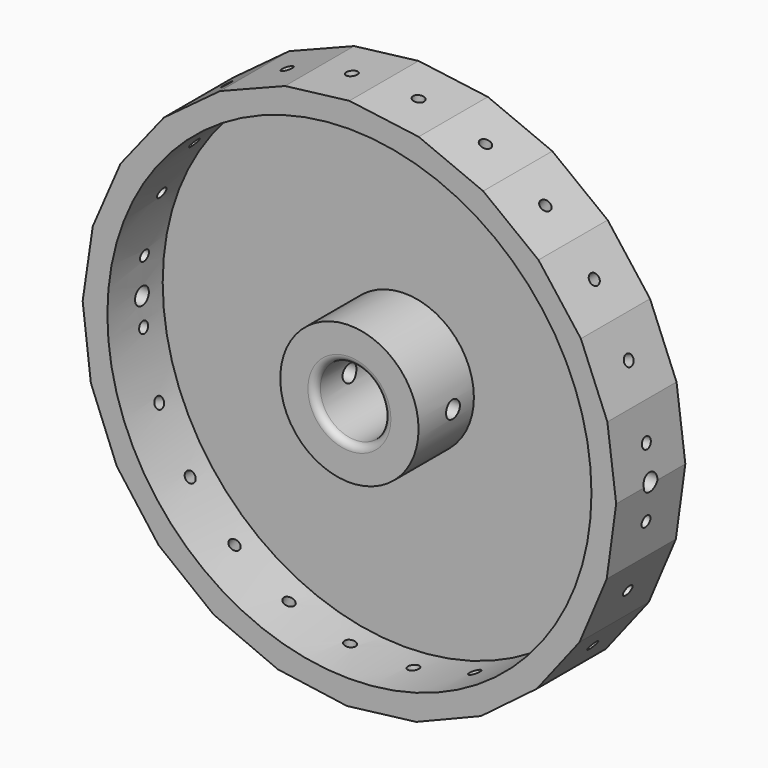
from build123d import *

# Parameters (mm, degrees)
F0_R      = 77.15
F0_R_2    = 10
F1_DEPTH  = 25
F3_DEPTH  = 25
F4_R      = 70
F4_R_2    = 20
F5_DEPTH  = 20
F6_R      = 2
F8_D      = 3.2
F8_DEPTH  = 20
F8_TIP    = 0.9613769904
F10_D     = 3.2
F10_DEPTH = 20
F10_TIP   = 0.9613769904
F12_D     = 3.2
F12_DEPTH = 20
F12_TIP   = 0.9613769904
F14_D     = 3.2
F14_DEPTH = 20
F14_TIP   = 0.9613769904
F16_D     = 3.2
F16_DEPTH = 20
F16_TIP   = 0.9613769904
F18_D     = 3.2
F18_DEPTH = 20
F18_TIP   = 0.9613769904
F20_D     = 3.2
F20_DEPTH = 20
F20_TIP   = 0.9613769904
F22_D     = 3.2
F22_DEPTH = 20
F22_TIP   = 0.9613769904
F24_D     = 3.2
F24_DEPTH = 20
F24_TIP   = 0.9613769904
F26_D     = 3.2
F26_DEPTH = 20
F26_TIP   = 0.9613769904
F28_D     = 3.2
F28_DEPTH = 20
F28_TIP   = 0.9613769904
F30_D     = 3.2
F30_DEPTH = 20
F30_TIP   = 0.9613769904
F32_D     = 3.2
F32_DEPTH = 20
F32_TIP   = 0.9613769904
F34_D     = 3.2
F34_DEPTH = 20
F34_TIP   = 0.9613769904
F36_D     = 3.2
F36_DEPTH = 20
F36_TIP   = 0.9613769904
F38_D     = 3.2
F38_DEPTH = 20
F38_TIP   = 0.9613769904
F40_D     = 3.2
F40_DEPTH = 20
F40_TIP   = 0.9613769904
F42_D     = 3.2
F42_DEPTH = 20
F42_TIP   = 0.9613769904
F44_D     = 3.2
F44_DEPTH = 20
F44_TIP   = 0.9613769904
F46_D     = 3.2
F46_DEPTH = 20
F46_TIP   = 0.9613769904
F48_D     = 3.2
F48_DEPTH = 20
F48_TIP   = 0.9613769904
F50_D     = 3.2
F50_DEPTH = 20
F50_TIP   = 0.9613769904
F52_D     = 3.2
F52_DEPTH = 20
F52_TIP   = 0.9613769904
F54_D     = 3.2
F54_DEPTH = 20
F54_TIP   = 0.9613769904
F56_D     = 5
F56_DEPTH = 100
F56_TIP   = 1.5021515476
F58_D     = 5
F58_DEPTH = 100
F58_TIP   = 1.5021515476


with BuildPart() as f1:
    # F0 (on Front) → F1 (new body)
    with BuildSketch(Plane.XZ):
        Circle(F0_R)
        Circle(F0_R_2, mode=Mode.SUBTRACT)
    extrude(amount=F1_DEPTH)

    # F2 (on face) → F3 (cut)
    with BuildSketch(Plane.XZ.offset(25)):
        with BuildLine():
            ThreePointArc((20.0261538347, 74.5055411536), (10.1, 76.4860281359), (0, 77.15))
            Line((0, 77.15), (20.0261538347, 74.5055411536))
        make_face()
        with BuildLine():
            ThreePointArc((38.6794407953, 66.7534520438), (29.6076076643, 71.2426281688), (20.0261538347, 74.5055411536))
            Line((20.0261538347, 74.5055411536), (38.6794407953, 66.7534520438))
        make_face()
        with BuildLine():
            ThreePointArc((54.6811091068, 54.4251670355), (47.0855043757, 61.1152826851), (38.6794407953, 66.7534520438))
            Line((38.6794407953, 66.7534520438), (54.6811091068, 54.4251670355))
        make_face()
        with BuildLine():
            ThreePointArc((66.9341852549, 38.3658356388), (61.3355157058, 46.7982586546), (54.6811091068, 54.4251670355))
            Line((54.6811091068, 54.4251670355), (66.9341852549, 38.3658356388))
        make_face()
        with BuildLine():
            ThreePointArc((74.5986755747, 19.6763843858), (71.3807507013, 29.2730409987), (66.9341852549, 38.3658356388))
            Line((66.9341852549, 38.3658356388), (74.5986755747, 19.6763843858))
        make_face()
        with BuildLine():
            ThreePointArc((77.15, 0), (76.5095102605, 9.9205513811), (74.5986755747, 19.6763843858))
            Line((74.5986755747, 19.6763843858), (77.1491509223, -0.3619557526))
            ThreePointArc((77.1491509223, -0.3619557526), (77.1497877303, -0.1809783742), (77.15, 0))
        make_face()
        with BuildLine():
            ThreePointArc((74.4107667845, -20.3754824861), (76.437801361, -10.4587295164), (77.1491509223, -0.3619557526))
            Line((77.1491509223, -0.3619557526), (74.4107667845, -20.3754824861))
        make_face()
        with BuildLine():
            ThreePointArc((66.5712495167, -38.9921945752), (71.1029375085, -29.9415226343), (74.4107667845, -20.3754824861))
            Line((74.4107667845, -20.3754824861), (66.5712495167, -38.9921945752))
        make_face()
        with BuildLine():
            ThreePointArc((54.1680270071, -54.9358475875), (60.8937044506, -47.3717136938), (66.5712495167, -38.9921945752))
            Line((66.5712495167, -38.9921945752), (54.1680270071, -54.9358475875))
        make_face()
        with BuildLine():
            ThreePointArc((38.0513860086, -67.1134451718), (46.5099828528, -61.5543986652), (54.1680270071, -54.9358475875))
            Line((54.1680270071, -54.9358475875), (38.0513860086, -67.1134451718))
        make_face()
        with BuildLine():
            ThreePointArc((19.3261818384, -74.6901679979), (28.9378300016, -71.517302066), (38.0513860086, -67.1134451718))
            Line((38.0513860086, -67.1134451718), (19.3261818384, -74.6901679979))
        make_face()
        with BuildLine():
            ThreePointArc((-0.7239035381, -77.1466037079), (9.3818819322, -76.5774300392), (19.3261818384, -74.6901679979))
            Line((19.3261818384, -74.6901679979), (-0.7239035381, -77.1466037079))
        make_face()
        with BuildLine():
            ThreePointArc((-20.724362651, -74.3143545535), (-10.8172288248, -76.387892107), (-0.7239035381, -77.1466037079))
            Line((-0.7239035381, -77.1466037079), (-20.724362651, -74.3143545535))
        make_face()
        with BuildLine():
            ThreePointArc((-39.3040900945, -66.387581684), (-30.2747785588, -70.9616817953), (-20.724362651, -74.3143545535))
            Line((-20.724362651, -74.3143545535), (-39.3040900945, -66.387581684))
        make_face()
        with BuildLine():
            ThreePointArc((-55.1893768704, -53.9096946815), (-47.6568803089, -60.6707858794), (-39.3040900945, -66.387581684))
            Line((-39.3040900945, -66.387581684), (-55.1893768704, -53.9096946815))
        make_face()
        with BuildLine():
            ThreePointArc((-67.2912278488, -37.736098826), (-61.7719267452, -46.2206833158), (-55.1893768704, -53.9096946815))
            Line((-55.1893768704, -53.9096946815), (-67.2912278488, -37.736098826))
        make_face()
        with BuildLine():
            ThreePointArc((-74.7800164092, -18.9755539006), (-71.652279257, -28.6019820514), (-67.2912278488, -37.736098826))
            Line((-67.2912278488, -37.736098826), (-74.7800164092, -18.9755539006))
        make_face()
        with BuildLine():
            ThreePointArc((-77.1423584129, 1.0858353897), (-76.6206031558, -9.0225091873), (-74.7800164092, -18.9755539006))
            Line((-74.7800164092, -18.9755539006), (-77.1423584129, 1.0858353897))
        make_face()
        with BuildLine():
            ThreePointArc((-74.2163065828, 21.0727866502), (-76.3363014725, 11.1754900342), (-77.1423584129, 1.0858353897))
            Line((-77.1423584129, 1.0858353897), (-74.2163065828, 21.0727866502))
        make_face()
        with BuildLine():
            ThreePointArc((-66.2024525884, 39.615120488), (-70.8188641383, 30.6073681025), (-74.2163065828, 21.0727866502))
            Line((-74.2163065828, 21.0727866502), (-66.2024525884, 39.615120488))
        make_face()
        with BuildLine():
            ThreePointArc((-53.6501757449, 55.4416913752), (-60.4465318783, 47.9409979442), (-66.2024525884, 39.615120488))
            Line((-66.2024525884, 39.615120488), (-53.6501757449, 55.4416913752))
        make_face()
        with BuildLine():
            ThreePointArc((-37.4199810308, 67.4675293727), (-45.9303664113, 61.9880951581), (-53.6501757449, 55.4416913752))
            Line((-53.6501757449, 55.4416913752), (-37.4199810308, 67.4675293727))
        make_face()
        with BuildLine():
            ThreePointArc((-18.6245082903, 74.8682188311), (-28.2655045405, 71.7856793035), (-37.4199810308, 67.4675293727))
            Line((-37.4199810308, 67.4675293727), (-18.6245082903, 74.8682188311))
        make_face()
        with BuildLine():
            Line((-18.6245082903, 74.8682188311), (0, 77.15))
            ThreePointArc((0, 77.15), (-9.3818819322, 76.5774300392), (-18.6245082903, 74.8682188311))
        make_face()
    extrude(amount=-F3_DEPTH, mode=Mode.SUBTRACT)

    # F4 (on face) → F5 (cut)
    with BuildSketch(Plane.XZ.offset(25)):
        Circle(F4_R)
        Circle(F4_R_2, mode=Mode.SUBTRACT)
    extrude(amount=-F5_DEPTH, mode=Mode.SUBTRACT)

    # F6
    f6_edges = [f1.edges().sort_by_distance(p)[0] for p in [
        (-10, 0, 0),
        (-10, -25, 0),
    ]]
    fillet(f6_edges, radius=F6_R)

    # F8
    with Locations(Plane(origin=(75.8739132485, 0, 9.6572143166), x_dir=(0, 1, 0), z_dir=(0.9919970366, 0, 0.1262611558))):
        with Locations((-12.5, 0)):
            Hole(F8_D / 2, depth=F8_DEPTH)
            with Locations((0, 0, -(F8_DEPTH + F8_TIP / 2))):  # 118° drill point
                Cone(0, F8_D / 2, F8_TIP, mode=Mode.SUBTRACT)

    # F10
    with Locations(Plane(origin=(75.7799588534, 0, -10.3687191193), x_dir=(0, 1, 0), z_dir=(0.9907686502, 0, -0.1355635712))):
        with Locations((-12.5, 0)):
            Hole(F10_D / 2, depth=F10_DEPTH)
            with Locations((0, 0, -(F10_DEPTH + F10_TIP / 2))):  # 118° drill point
                Cone(0, F10_D / 2, F10_TIP, mode=Mode.SUBTRACT)

    # F12
    with Locations(Plane(origin=(70.4910081506, 0, -29.6838385306), x_dir=(0, 1, 0), z_dir=(0.9216194104, 0, -0.3880949142))):
        with Locations((-12.5, 0)):
            Hole(F12_D / 2, depth=F12_DEPTH)
            with Locations((0, 0, -(F12_DEPTH + F12_TIP / 2))):  # 118° drill point
                Cone(0, F12_D / 2, F12_TIP, mode=Mode.SUBTRACT)

    # F14
    with Locations(Plane(origin=(60.3696382619, 0, -46.9640210813), x_dir=(0, 1, 0), z_dir=(0.7892897531, 0, -0.6140209163))):
        with Locations((-12.5, 0)):
            Hole(F14_D / 2, depth=F14_DEPTH)
            with Locations((0, 0, -(F14_DEPTH + F14_TIP / 2))):  # 118° drill point
                Cone(0, F14_D / 2, F14_TIP, mode=Mode.SUBTRACT)

    # F16
    with Locations(Plane(origin=(46.1097065078, 0, -61.0246463796), x_dir=(0.7978535148, 0, 0.6028513656), z_dir=(0.6028513656, 0, -0.7978535148))):
        with Locations((0, 12.5)):
            Hole(F16_D / 2, depth=F16_DEPTH)
            with Locations((0, 0, -(F16_DEPTH + F16_TIP / 2))):  # 118° drill point
                Cone(0, F16_D / 2, F16_TIP, mode=Mode.SUBTRACT)

    # F18
    with Locations(Plane(origin=(28.6887839235, 0, -70.9018065848), x_dir=(0.9269903055, 0, 0.3750852884), z_dir=(0.3750852884, 0, -0.9269903055))):
        with Locations((0, 12.5)):
            Hole(F18_D / 2, depth=F18_DEPTH)
            with Locations((0, 0, -(F18_DEPTH + F18_TIP / 2))):  # 118° drill point
                Cone(0, F18_D / 2, F18_TIP, mode=Mode.SUBTRACT)

    # F20
    with Locations(Plane(origin=(9.3011391501, 0, -75.9183858529), x_dir=(0.992578484, 0, 0.1216057282), z_dir=(0.1216057282, 0, -0.992578484))):
        with Locations((0, 12.5)):
            Hole(F20_D / 2, depth=F20_DEPTH)
            with Locations((0, 0, -(F20_DEPTH + F20_TIP / 2))):  # 118° drill point
                Cone(0, F20_D / 2, F20_TIP, mode=Mode.SUBTRACT)

    # F22
    with Locations(Plane(origin=(-10.7241330945, 0, -75.7304791307), x_dir=(0.9901217383, 0, -0.1402103542), z_dir=(-0.1402103542, 0, -0.9901217383))):
        with Locations((0, 12.5)):
            Hole(F22_D / 2, depth=F22_DEPTH)
            with Locations((0, 0, -(F22_DEPTH + F22_TIP / 2))):  # 118° drill point
                Cone(0, F22_D / 2, F22_TIP, mode=Mode.SUBTRACT)

    # F24
    with Locations(Plane(origin=(-30.0142263727, 0, -70.3509681188), x_dir=(0.9197884873, 0, -0.3924144985), z_dir=(-0.3924144985, 0, -0.9197884873))):
        with Locations((0, 12.5)):
            Hole(F24_D / 2, depth=F24_DEPTH)
            with Locations((0, 0, -(F24_DEPTH + F24_TIP / 2))):  # 118° drill point
                Cone(0, F24_D / 2, F24_TIP, mode=Mode.SUBTRACT)

    # F26
    with Locations(Plane(origin=(-47.2467334825, 0, -60.1486381827), x_dir=(0.7864003354, 0, -0.6177171783), z_dir=(-0.6177171783, 0, -0.7864003354))):
        with Locations((0, 12.5)):
            Hole(F26_D / 2, depth=F26_DEPTH)
            with Locations((0, 0, -(F26_DEPTH + F26_TIP / 2))):  # 118° drill point
                Cone(0, F26_D / 2, F26_TIP, mode=Mode.SUBTRACT)

    # F28
    with Locations(Plane(origin=(-61.2403023596, 0, -45.8228967537), x_dir=(0, -1, 0), z_dir=(-0.8006730622, 0, -0.5991015336))):
        with Locations((12.5, 0)):
            Hole(F28_D / 2, depth=F28_DEPTH)
            with Locations((0, 0, -(F28_DEPTH + F28_TIP / 2))):  # 118° drill point
                Cone(0, F28_D / 2, F28_TIP, mode=Mode.SUBTRACT)

    # F30
    with Locations(Plane(origin=(-71.035622129, 0, -28.3558263633), x_dir=(0, -1, 0), z_dir=(-0.9287398478, 0, -0.370732107))):
        with Locations((12.5, 0)):
            Hole(F30_D / 2, depth=F30_DEPTH)
            with Locations((0, 0, -(F30_DEPTH + F30_TIP / 2))):  # 118° drill point
                Cone(0, F30_D / 2, F30_TIP, mode=Mode.SUBTRACT)

    # F32
    with Locations(Plane(origin=(-75.9611874111, 0, -8.9448592555), x_dir=(0, -1, 0), z_dir=(-0.9931380837, 0, -0.1169476239))):
        with Locations((12.5, 0)):
            Hole(F32_D / 2, depth=F32_DEPTH)
            with Locations((0, 0, -(F32_DEPTH + F32_TIP / 2))):  # 118° drill point
                Cone(0, F32_D / 2, F32_TIP, mode=Mode.SUBTRACT)

    # F34
    with Locations(Plane(origin=(-75.6793324979, 0, 11.0793110199), x_dir=(0, -1, 0), z_dir=(-0.9894530327, 0, 0.144854051))):
        with Locations((12.5, 0)):
            Hole(F34_D / 2, depth=F34_DEPTH)
            with Locations((0, 0, -(F34_DEPTH + F34_TIP / 2))):  # 118° drill point
                Cone(0, F34_D / 2, F34_TIP, mode=Mode.SUBTRACT)

    # F36
    with Locations(Plane(origin=(-70.2093795856, 0, 30.3439535691), x_dir=(0, -1, 0), z_dir=(-0.9179373187, 0, 0.3967254453))):
        with Locations((12.5, 0)):
            Hole(F36_D / 2, depth=F36_DEPTH)
            with Locations((0, 0, -(F36_DEPTH + F36_TIP / 2))):  # 118° drill point
                Cone(0, F36_D / 2, F36_TIP, mode=Mode.SUBTRACT)

    # F38
    with Locations(Plane(origin=(-59.9263141667, 0, 47.5284059316), x_dir=(0, -1, 0), z_dir=(-0.7834936083, 0, 0.6213998437))):
        with Locations((12.5, 0)):
            Hole(F38_D / 2, depth=F38_DEPTH)
            with Locations((0, 0, -(F38_DEPTH + F38_TIP / 2))):  # 118° drill point
                Cone(0, F38_D / 2, F38_TIP, mode=Mode.SUBTRACT)

    # F40
    with Locations(Plane(origin=(-45.5350783879, 0, 61.4546103739), x_dir=(0.8034749858, 0, 0.5953385147), z_dir=(-0.5953385147, 0, 0.8034749858))):
        with Locations((0, -12.5)):
            Hole(F40_D / 2, depth=F40_DEPTH)
            with Locations((0, 0, -(F40_DEPTH + F40_TIP / 2))):  # 118° drill point
                Cone(0, F40_D / 2, F40_TIP, mode=Mode.SUBTRACT)

    # F42
    with Locations(Plane(origin=(-28.0222446606, 0, 71.1678741019), x_dir=(0.9304689476, 0, 0.3663707653), z_dir=(-0.3663707653, 0, 0.9304689476))):
        with Locations((0, -12.5)):
            Hole(F42_D / 2, depth=F42_DEPTH)
            with Locations((0, 0, -(F42_DEPTH + F42_TIP / 2))):  # 118° drill point
                Cone(0, F42_D / 2, F42_TIP, mode=Mode.SUBTRACT)

    # F44
    with Locations(Plane(origin=(-9.3122541452, 0, 76.0091094156), x_dir=(0.992578484, 0, 0.1216057282), z_dir=(-0.1216057282, 0, 0.992578484))):
        with Locations((0, -12.5)):
            Hole(F44_D / 2, depth=F44_DEPTH)
            with Locations((0, 0, -(F44_DEPTH + F44_TIP / 2))):  # 118° drill point
                Cone(0, F44_D / 2, F44_TIP, mode=Mode.SUBTRACT)

    # F46
    with Locations(Plane(origin=(10.0130769173, 0, 75.8277705768), x_dir=(0.9913937542, 0, -0.1309138043), z_dir=(0.1309138043, 0, 0.9913937542))):
        with Locations((0, -12.5)):
            Hole(F46_D / 2, depth=F46_DEPTH)
            with Locations((0, 0, -(F46_DEPTH + F46_TIP / 2))):  # 118° drill point
                Cone(0, F46_D / 2, F46_TIP, mode=Mode.SUBTRACT)

    # F48
    with Locations(Plane(origin=(29.352797315, 0, 70.6294965987), x_dir=(0.9234300476, 0, -0.3837667876), z_dir=(0.3837667876, 0, 0.9234300476))):
        with Locations((0, -12.5)):
            Hole(F48_D / 2, depth=F48_DEPTH)
            with Locations((0, 0, -(F48_DEPTH + F48_TIP / 2))):  # 118° drill point
                Cone(0, F48_D / 2, F48_TIP, mode=Mode.SUBTRACT)

    # F50
    with Locations(Plane(origin=(46.6802749511, 0, 60.5893095397), x_dir=(0.7921617976, 0, -0.610311139), z_dir=(0.610311139, 0, 0.7921617976))):
        with Locations((0, -12.5)):
            Hole(F50_D / 2, depth=F50_DEPTH)
            with Locations((0, 0, -(F50_DEPTH + F50_TIP / 2))):  # 118° drill point
                Cone(0, F50_D / 2, F50_TIP, mode=Mode.SUBTRACT)

    # F52
    with Locations(Plane(origin=(60.8076471809, 0, 46.3955013372), x_dir=(0, 1, 0), z_dir=(0.7950164058, 0, 0.6065879281))):
        with Locations((-12.5, 0)):
            Hole(F52_D / 2, depth=F52_DEPTH)
            with Locations((0, 0, -(F52_DEPTH + F52_TIP / 2))):  # 118° drill point
                Cone(0, F52_D / 2, F52_TIP, mode=Mode.SUBTRACT)

    # F54
    with Locations(Plane(origin=(70.7664304148, 0, 29.0211100123), x_dir=(0, 1, 0), z_dir=(0.9252203591, 0, 0.3794302139))):
        with Locations((-12.5, 0)):
            Hole(F54_D / 2, depth=F54_DEPTH)
            with Locations((0, 0, -(F54_DEPTH + F54_TIP / 2))):  # 118° drill point
                Cone(0, F54_D / 2, F54_TIP, mode=Mode.SUBTRACT)

    # F56 (one way)
    with BuildSketch(Plane.YZ):
        with Locations((-12.5, -0.3619557526)):
            Circle(F56_D / 2)
    extrude(amount=-F56_DEPTH, mode=Mode.SUBTRACT)
    with Locations(Plane.YZ):
        with Locations((-12.5, -0.3619557526)):
            with Locations((0, 0, -(F56_DEPTH + F56_TIP / 2))):  # 118° drill point
                Cone(0, F56_D / 2, F56_TIP, mode=Mode.SUBTRACT)

    # F58 (one way)
    with BuildSketch(Plane(origin=(0, 0, 0), x_dir=(0, 1, 0), z_dir=(-1, 0, 0))):
        with Locations((-12.5472508454, 0)):
            Circle(F58_D / 2)
    extrude(amount=-F58_DEPTH, mode=Mode.SUBTRACT)
    with Locations(Plane(origin=(0, 0, 0), x_dir=(0, 1, 0), z_dir=(-1, 0, 0))):
        with Locations((-12.5472508454, 0)):
            with Locations((0, 0, -(F58_DEPTH + F58_TIP / 2))):  # 118° drill point
                Cone(0, F58_D / 2, F58_TIP, mode=Mode.SUBTRACT)


solid = f1.part
